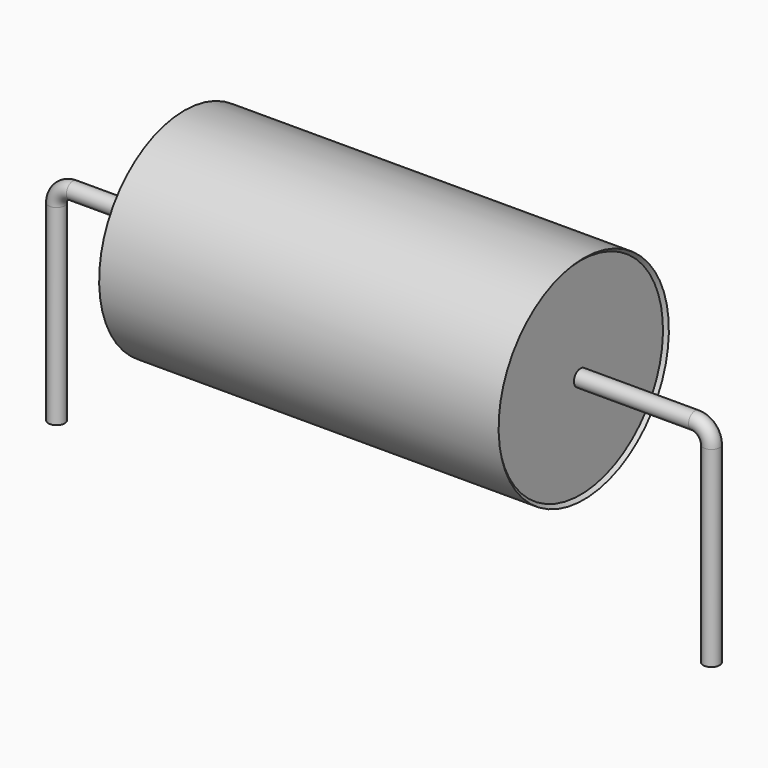
from build123d import *

# Parameters (mm, degrees)
SKETCH_R = 0.25


with BuildPart() as sweep_body:
    # Sweep: sweep along a path in Sketch001
    with BuildLine(Plane.XZ) as sweep_path:
        Line((0, -3), (0, 2.85))
        ThreePointArc((0, 2.85), (0.146443, 3.20355), (0.49999, 3.35))
        Line((0.49999, 3.35), (19.5, 3.35))
        ThreePointArc((19.5, 3.35), (19.853553, 3.203553), (20, 2.85))
        Line((20, 2.85), (20, -3))
    # Sketch → Sweep (sweep)
    with BuildSketch(Plane.XY.offset(-2)):
        Circle(SKETCH_R)
    sweep(path=sweep_path.line)


with BuildPart() as revolution:
    # Sketch002 → Revolution (revolve)
    with BuildSketch(Plane.XZ):
        Polygon((3.9, 6.6), (16.1, 6.6), (16, 6.5), (16, 3.35), (4, 3.35), (4, 6.5), align=None)
    revolve(axis=Axis((7.611803, 0, 3.35), (1, 0, 0)))


solid = Compound([sweep_body.part, revolution.part])
